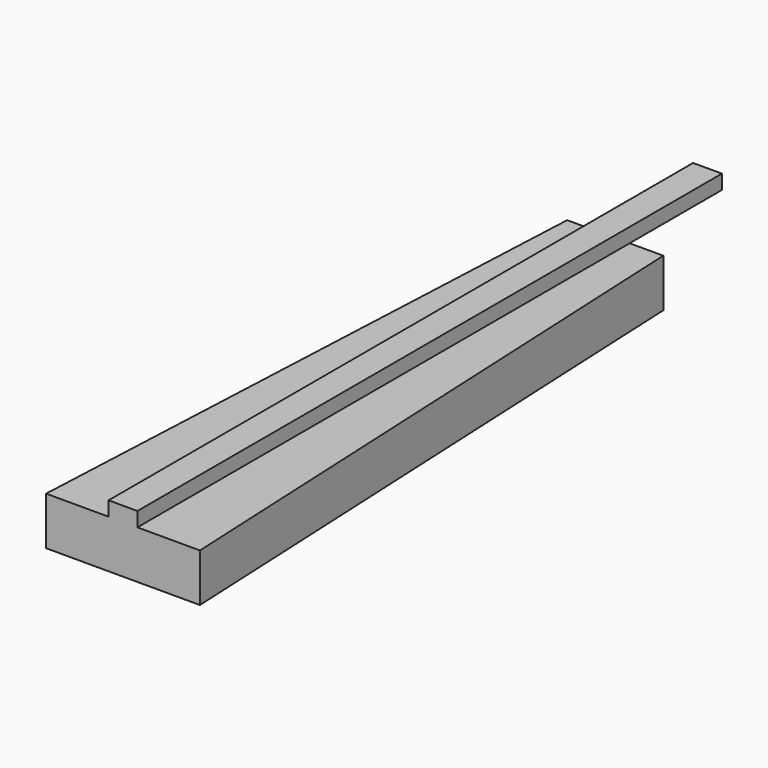
from build123d import *

# Parameters (mm, degrees)
F0_W     = 38.1
F0_H     = 965.2
F1_DEPTH = 19.05
F3_DEPTH = 63.5


with BuildPart() as f1:
    # F0 (on Top) → F1 (new body)
    with BuildSketch(Plane.XY):
        with Locations((0, 482.6)):
            Rectangle(F0_W, F0_H)
    extrude(amount=F1_DEPTH)

    # F2 (on Top) → F3 (join)
    with BuildSketch(Plane.XY):
        Polygon((-63.5, 812.8), (-101.6, 0), (101.6, 0), (63.5, 812.8), align=None)
    extrude(amount=-F3_DEPTH)


solid = f1.part
